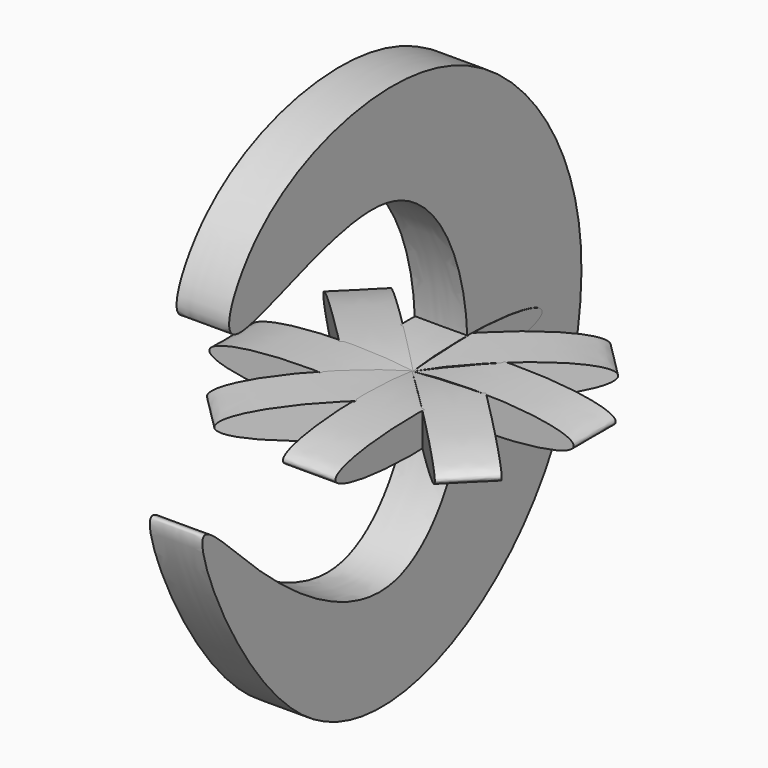
from build123d import *

# Parameters (mm, degrees)
F1_DEPTH  = 25.4
F3_DEPTH  = 25.4
F6_ANGLE  = 90
F8_ANGLE  = 90
F10_COUNT = 8


with BuildPart() as f1:
    # F0 (on Front) → F1 (new body)
    with BuildSketch(Plane.XZ):
        with BuildLine():
            add(Edge.make_bspline(
                [(0, 48.1690466404), (-14.1079283346, 48.1690466404), (-7.0539641673, -24.0845233202), (0, -96.3380932808), (7.0539641673, -24.0845233202), (14.1079283346, 48.1690466404), (0, 48.1690466404)],
                knots=[0, 0, 0, 2.0943951024, 2.0943951024, 4.1887902048, 4.1887902048, 6.2831853072, 6.2831853072, 6.2831853072], degree=2, weights=[1, 0.5, 1, 0.5, 1, 0.5, 1]))
        make_face()
    extrude(amount=F1_DEPTH)


with BuildPart() as f3:
    # F2 (on Right) → F3 (new body)
    with BuildSketch(Plane.YZ):
        with BuildLine():
            add(Edge.make_bspline(
                [(-102.101534605, 106.6066622734), (-80.9772742276, 127.5222298937), (-16.6023756237, 146.2287308906), (56.8545125169, 115.8064192919), (107.9662642488, 26.0009284203), (69.1092174711, -103.8932355275), (-81.0031983489, -155.7684030837), (-157.3866275965, 23.6115753496), (-98.8005224832, -45.2040093425), (-13.3151415207, -101.3723581148), (41.3522150969, -1.2144360017), (-7.6125414322, 124.6498688747), (-137.7686411191, 44.5740392861), (-116.2155619349, 92.6320715545), (-102.101534605, 106.6066622734)],
                knots=[0, 0, 0, 0, 0.0840095789, 0.1604065901, 0.246244172, 0.3447622796, 0.4438689957, 0.5420011188, 0.6010467634, 0.6855042681, 0.7681696433, 0.8575608023, 0.9438695854, 1, 1, 1, 1], degree=3))
        make_face()
    extrude(amount=F3_DEPTH)


with BuildPart() as f1_1:
    # F6: moved
    add(f1.part.rotate(Axis((0, -38.1844416261, 0), (0, -1, 0)), F6_ANGLE))


with BuildPart() as f1_2:
    # F8: moved
    add(f1_1.part.rotate(Axis((25.4, -9.2555843294, 69.3409740925), (0, 0, 1)), F8_ANGLE))


with BuildPart() as f1_3:
    # F9: moved
    add(f1_2.part.moved(Location((-15.9353800118, 55.3287565708, 3.9445087314))))


with BuildPart() as f10_1:
    # F10: instance of F1
    add(f1_3.part.rotate(Axis((25.4, -9.2555843294, 69.3409740925), (0, 0, 1)), 1 * 360 / F10_COUNT))


with BuildPart() as f10_2:
    # F10: instance of F1
    add(f1_3.part.rotate(Axis((25.4, -9.2555843294, 69.3409740925), (0, 0, 1)), 2 * 360 / F10_COUNT))


with BuildPart() as f10_3:
    # F10: instance of F1
    add(f1_3.part.rotate(Axis((25.4, -9.2555843294, 69.3409740925), (0, 0, 1)), 3 * 360 / F10_COUNT))


with BuildPart() as f10_4:
    # F10: instance of F1
    add(f1_3.part.rotate(Axis((25.4, -9.2555843294, 69.3409740925), (0, 0, 1)), 4 * 360 / F10_COUNT))


with BuildPart() as f10_5:
    # F10: instance of F1
    add(f1_3.part.rotate(Axis((25.4, -9.2555843294, 69.3409740925), (0, 0, 1)), 5 * 360 / F10_COUNT))


with BuildPart() as f10_6:
    # F10: instance of F1
    add(f1_3.part.rotate(Axis((25.4, -9.2555843294, 69.3409740925), (0, 0, 1)), 6 * 360 / F10_COUNT))


with BuildPart() as f10_7:
    # F10: instance of F1
    add(f1_3.part.rotate(Axis((25.4, -9.2555843294, 69.3409740925), (0, 0, 1)), 7 * 360 / F10_COUNT))


solid = Compound([f3.part, f1_3.part, f10_1.part, f10_2.part, f10_3.part, f10_4.part, f10_5.part, f10_6.part, f10_7.part])
